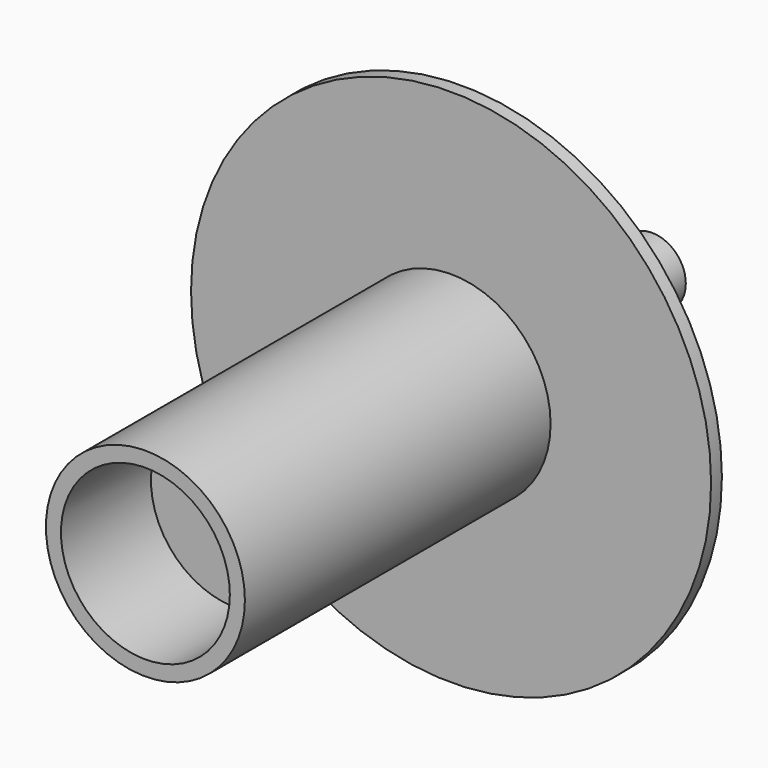
from build123d import *

# Parameters (mm, degrees)
F0_R     = 7.5
F1_DEPTH = 52.80856
F2_R     = 57.7679652565
F2_R_2   = 7.5
F3_DEPTH = 3
F4_R     = 22.1047770768
F5_DEPTH = 84.87969
F6_R     = 18.757754514
F7_DEPTH = 25


with BuildPart() as f1:
    # F0 (on Front) → F1 (new body)
    with BuildSketch(Plane.XZ):
        with Locations((-53.8066774607, 33.8541828096)):
            Circle(F0_R)
    extrude(amount=F1_DEPTH)

    # F2 (on face) → F3 (join)
    with BuildSketch(Plane.XZ.offset(52.80856)):
        with Locations((-53.8066774607, 33.8541828096)):
            Circle(F2_R)
        with Locations((-53.8066774607, 33.8541828096)):
            Circle(F2_R_2, mode=Mode.SUBTRACT)
        with Locations((-53.8066774607, 33.8541828096)):
            Circle(F2_R)
    extrude(amount=F3_DEPTH)

    # F4 (on face) → F5 (join)
    with BuildSketch(Plane.XZ.offset(55.80856)):
        with Locations((-53.8066774607, 33.8541828096)):
            Circle(F4_R)
    extrude(amount=F5_DEPTH)

    # F6 (on face) → F7 (cut)
    with BuildSketch(Plane.XZ.offset(140.68825)):
        with Locations((-53.8066774607, 33.8541828096)):
            Circle(F6_R)
    extrude(amount=-F7_DEPTH, mode=Mode.SUBTRACT)


solid = f1.part
